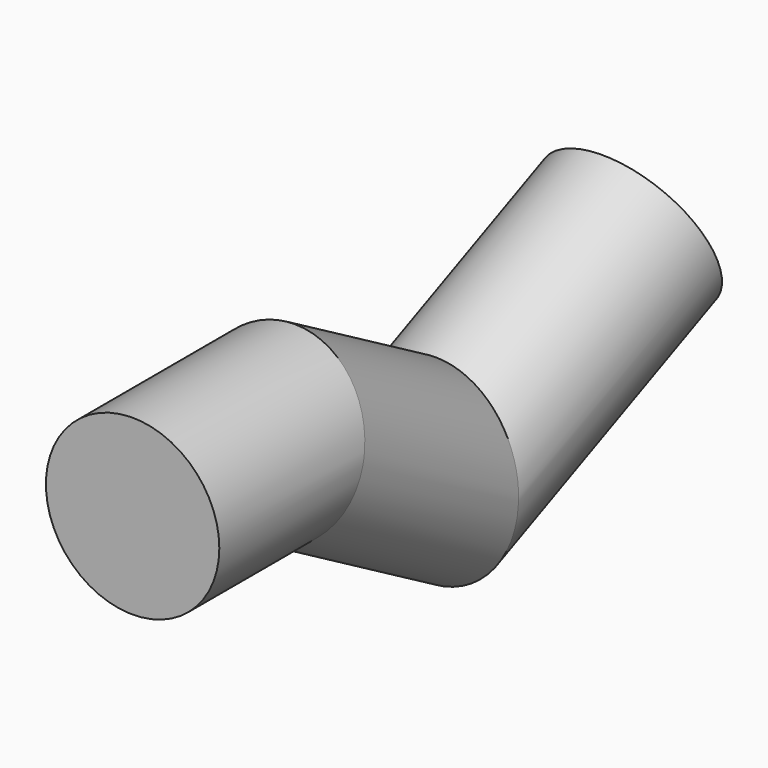
from build123d import *

# Parameters (mm, degrees)
F0_R = 12.6952313472


with BuildPart() as f2:
    # F2: sweep along a path in F1
    with BuildLine(Plane.YZ) as f2_path:
        Line((0, 0), (26.2855440378, 0))
        Line((26.2855440378, 0), (54.7737814486, -16.2999741733))
        Line((54.7737814486, -16.2999741733), (91.1917462945, 0))
    # F0 (on Front) → F2 (sweep)
    with BuildSketch(Plane.XZ):
        Circle(F0_R)
    sweep(path=f2_path.line, transition=Transition.RIGHT)


solid = f2.part
